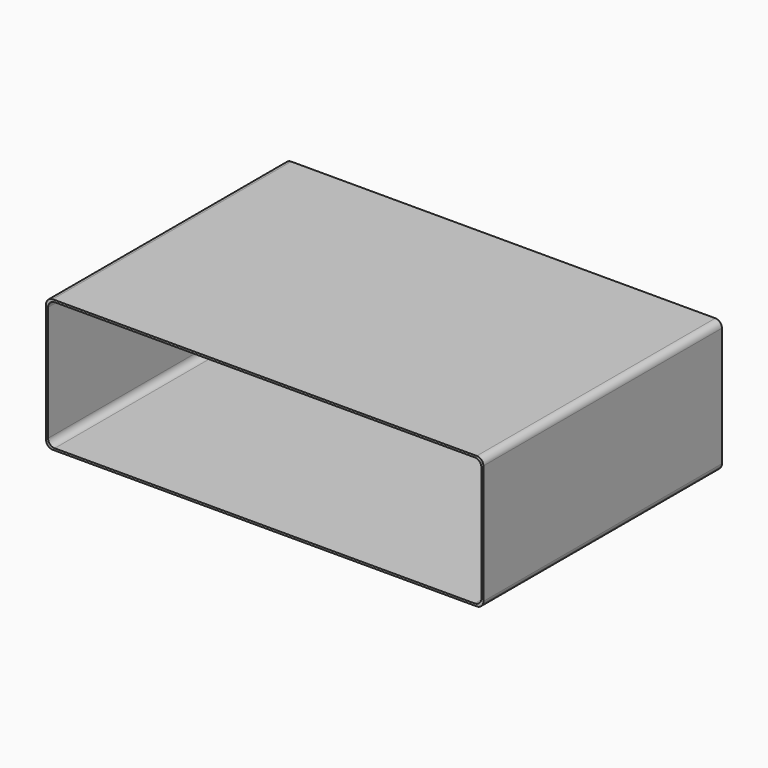
from build123d import *

# Parameters (mm, degrees)
F3_W     = 660
F3_H     = 200
F4_DEPTH = 450
F5_T     = -3
F6_R     = 10
F7_R     = 10
F8_R     = 10


with BuildPart() as f4:
    # F3 (on Front) → F4 (new body)
    with BuildSketch(Plane.XZ):
        with Locations((0, -100)):
            Rectangle(F3_W, F3_H)
    extrude(amount=F4_DEPTH)

    # F5
    f5_openings = [f4.faces().sort_by_distance(p)[0] for p in [
        (0, -450, -100),
    ]]
    offset(amount=F5_T, openings=f5_openings)

    # F6
    f6_edges = [f4.edges().sort_by_distance(p)[0] for p in [
        (330, -225, -200),
        (330, -225, 0),
    ]]
    fillet(f6_edges, radius=F6_R)

    # F7
    f7_edges = [f4.edges().sort_by_distance(p)[0] for p in [
        (327, -226.5, -197),
        (327, -226.5, -3),
        (-327, -226.5, -197),
        (-327, -226.5, -3),
    ]]
    fillet(f7_edges, radius=F7_R)

    # F8
    f8_edges = [f4.edges().sort_by_distance(p)[0] for p in [
        (-330, -225, -200),
        (-330, -225, 0),
    ]]
    fillet(f8_edges, radius=F8_R)


solid = f4.part
